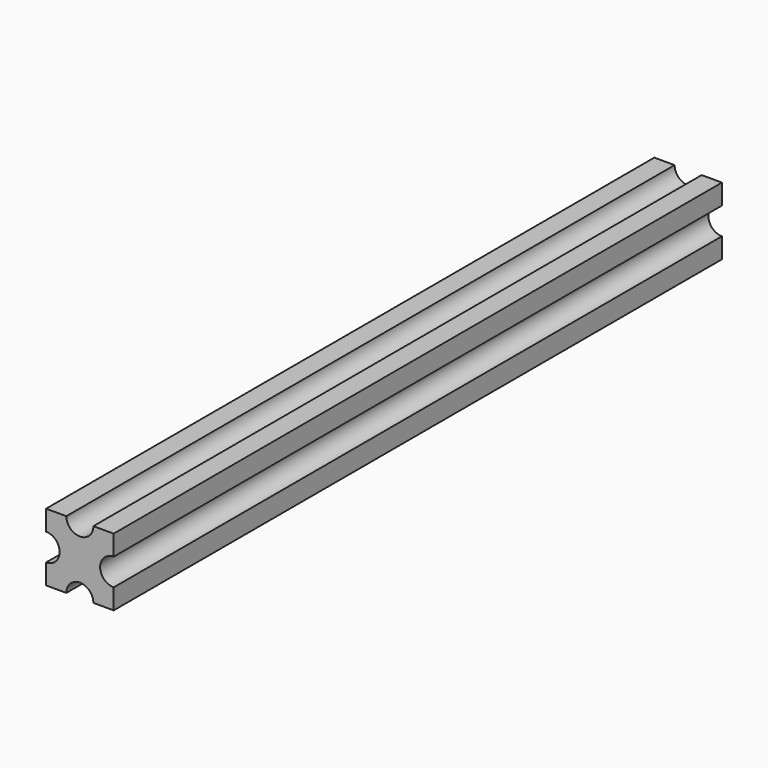
from build123d import *

# Parameters (mm, degrees)
F1_DEPTH = 450


with BuildPart() as f1:
    # F0 (on Front) → F1 (new body)
    with BuildSketch(Plane.XZ):
        with BuildLine():
            Line((8, -20), (20, -20))
            Line((20, -20), (20, -8))
            ThreePointArc((20, -8), (12, 0), (20, 8))
            Line((20, 8), (20, 20))
            Line((20, 20), (8, 20))
            ThreePointArc((8, 20), (0, 12), (-8, 20))
            Line((-8, 20), (-20, 20))
            Line((-20, 20), (-20, 8))
            ThreePointArc((-20, 8), (-14.343146, 5.656854), (-12, 0))
            ThreePointArc((-12, 0), (-14.343146, -5.656854), (-20, -8))
            Line((-20, -8), (-20, -20))
            Line((-20, -20), (-8, -20))
            ThreePointArc((-8, -20), (0, -12), (8, -20))
        make_face()
    extrude(amount=F1_DEPTH)


solid = f1.part
